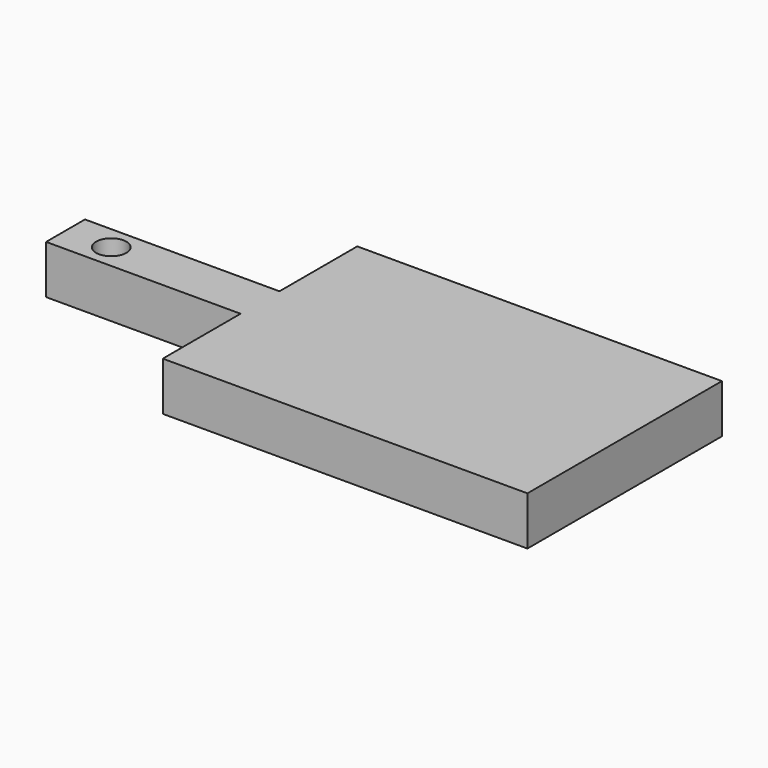
from build123d import *

# Parameters (mm, degrees)
F0_W      = 203.2
F0_H      = 50.8
F1_DEPTH  = 25.4
F2_R      = 15.875
F3_DEPTH  = 25.4
F1_FACE_R = 15.875
F4_DEPTH  = 25.4


with BuildPart() as f1:
    # F0 (on Top) → F1 (new body)
    with BuildSketch(Plane.XY):
        Polygon((0, 101.6), (0, 0), (381, 0), (381, 254), (0, 254), (0, 152.4), align=None)
        with Locations((-101.6, 127)):
            Rectangle(F0_W, F0_H)
    extrude(amount=F1_DEPTH)

    # F2 (on face) → F3 (cut)
    with BuildSketch(Plane.XY.offset(25.4)):
        with Locations((-155.762672, 127.381)):
            Circle(F2_R)
    extrude(amount=-F3_DEPTH, mode=Mode.SUBTRACT)

    # F1_face (on face) → F4 (join)
    with BuildSketch(Plane(origin=(162.345783, 127, 25.4), x_dir=(1, 0, 0), z_dir=(0, 0, 1))):
        Polygon((-162.345783, -25.4), (-162.345783, -127), (218.654217, -127), (218.654217, 127), (-162.345783, 127), (-162.345783, 25.4), (-365.545783, 25.4), (-365.545783, -25.4), align=None)
        with Locations((-318.108456, 0.381)):
            Circle(F1_FACE_R, mode=Mode.SUBTRACT)
    extrude(amount=F4_DEPTH)


solid = f1.part
